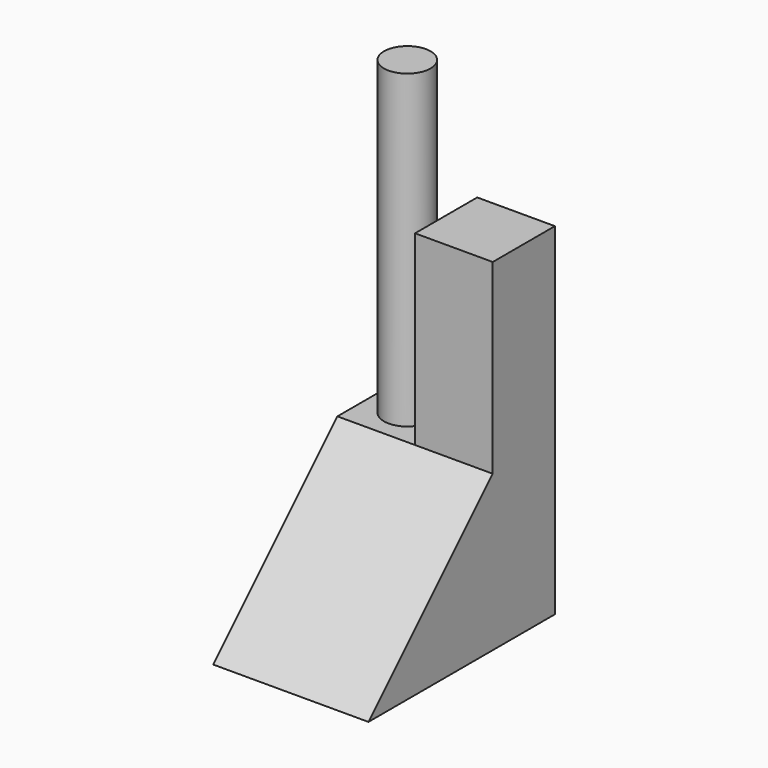
from build123d import *

# Parameters (mm, degrees)
F0_W     = 10
F0_H     = 15
F1_DEPTH = 10
F2_W     = 5
F2_H     = 5
F3_DEPTH = 12
F4_R     = 1.5
F5_DEPTH = 20
F7_DEPTH = 10


with BuildPart() as f1:
    # F0 (on Top) → F1 (new body)
    with BuildSketch(Plane.XY):
        Rectangle(F0_W, F0_H)
    extrude(amount=F1_DEPTH)

    # F2 (on face) → F3 (join)
    with BuildSketch(Plane.XY.offset(10)):
        with Locations((2.5, 5)):
            Rectangle(F2_W, F2_H)
    extrude(amount=F3_DEPTH)

    # F4 (on face) → F5 (join)
    with BuildSketch(Plane.XY.offset(10)):
        with Locations((-2.5, 5)):
            Circle(F4_R)
    extrude(amount=F5_DEPTH)

    # F6 (on face) → F7 (cut)
    with BuildSketch(Plane.YZ.offset(5)):
        Polygon((-7.5, 10), (-7.5, 0), (2.5, 10), align=None)
    extrude(amount=-F7_DEPTH, mode=Mode.SUBTRACT)


solid = f1.part
